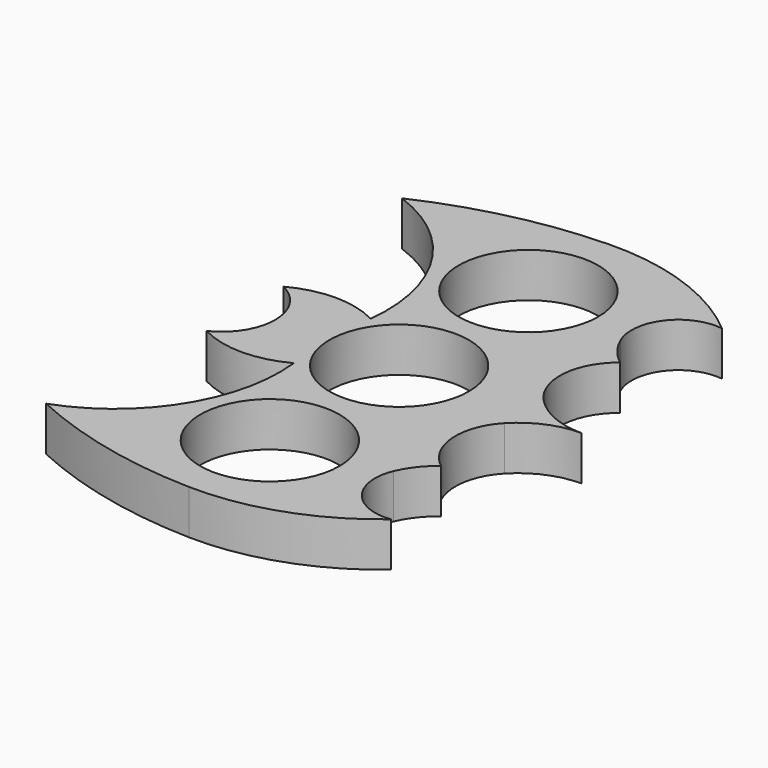
from build123d import *

# Parameters (mm, degrees)
F1_R     = 10.99185
F2_DEPTH = 7


with BuildPart() as f2:
    # F1 (on Top) → F2 (new body)
    with BuildSketch(Plane.XY):
        with BuildLine():
            ThreePointArc((17.033685, 22.367952), (17.930632, 29.765852), (24.81827, 32.610826))
            ThreePointArc((24.81827, 32.610826), (13.218162, 39.29463), (0, 41.419696))
            ThreePointArc((0, 41.419696), (-14.137149, 39.656123), (-27.625239, 35.069115))
            ThreePointArc((-27.625239, 35.069115), (-14.315963, 24.282618), (-10.557758, 7.568515))
            ThreePointArc((-10.557758, 7.568515), (-17.42666, 9.289489), (-24.295563, 7.568515))
            ThreePointArc((-24.295563, 7.568515), (-20.833353, 4.467062), (-19.548337, 0))
            ThreePointArc((-19.548337, 0), (-20.833353, -4.467062), (-24.295563, -7.568515))
            ThreePointArc((-24.295563, -7.568515), (-17.42666, -9.289489), (-10.557758, -7.568515))
            ThreePointArc((-10.557758, -7.568515), (-14.315963, -24.282618), (-27.625239, -35.069115))
            ThreePointArc((-27.625239, -35.069115), (-14.137149, -39.656123), (0, -41.419696))
            ThreePointArc((0, -41.419696), (13.218162, -39.29463), (24.81827, -32.610826))
            ThreePointArc((24.81827, -32.610826), (17.930632, -29.765852), (17.033685, -22.367952))
            ThreePointArc((17.033685, -22.367952), (18.574811, -19.775282), (20.721119, -17.656233))
            ThreePointArc((20.721119, -17.656233), (17.149082, -10.998468), (19.687688, -3.882235))
            ThreePointArc((19.687688, -3.882235), (23.813117, -1.011532), (28.736215, 0))
            ThreePointArc((28.736215, 0), (23.813117, 1.011532), (19.687688, 3.882235))
            ThreePointArc((19.687688, 3.882235), (17.149082, 10.998468), (20.721119, 17.656233))
            ThreePointArc((20.721119, 17.656233), (18.574811, 19.775282), (17.033685, 22.367952))
        make_face()
        with Locations((0, -25.4837)):
            Circle(F1_R, mode=Mode.SUBTRACT)
        Circle(F1_R, mode=Mode.SUBTRACT)
        with Locations((0, 25.4837)):
            Circle(F1_R, mode=Mode.SUBTRACT)
    extrude(amount=F2_DEPTH)


solid = f2.part
